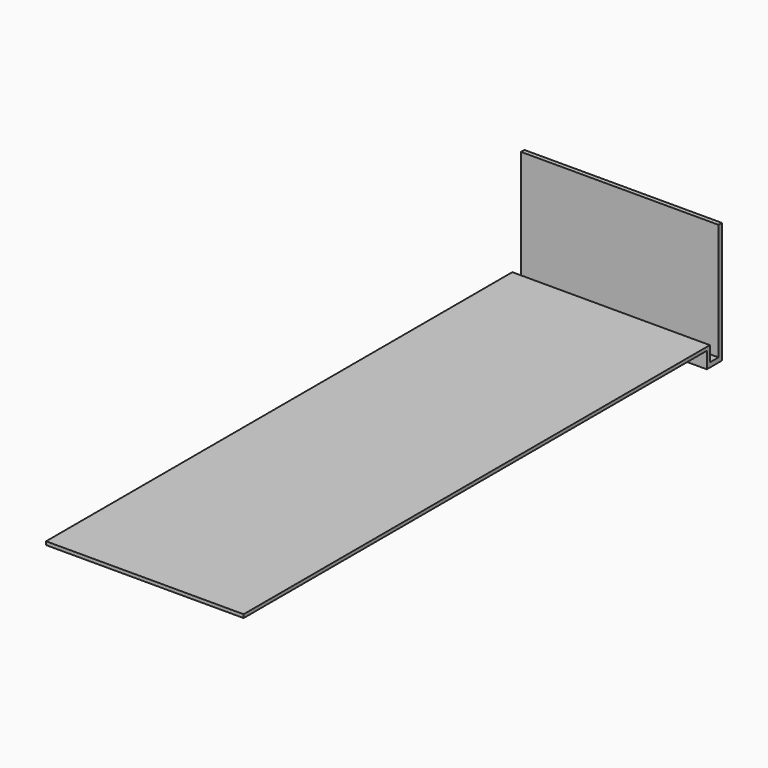
from build123d import *

# Parameters (mm, degrees)
F0_W     = 58
F0_H     = 170
F1_DEPTH = 1
F3_DEPTH = 58


with BuildPart() as f1:
    # F0 (on Top) → F1 (new body)
    with BuildSketch(Plane.XY):
        Rectangle(F0_W, F0_H)
    extrude(amount=F1_DEPTH)

    # F2 (on face) → F3 (join, through all)
    with BuildSketch(Plane.YZ.offset(29)):
        Polygon((86.109489, 1), (85, 1), (85, -4.806199), (86.109489, -4.806199), (90.539046, -4.806199), (90.539046, -3.463339), (90.539046, 30.797509), (89.292906, 30.797509), (89.292906, -3.463339), (86.109489, -3.463339), align=None)
    extrude(amount=-F3_DEPTH)


solid = f1.part
